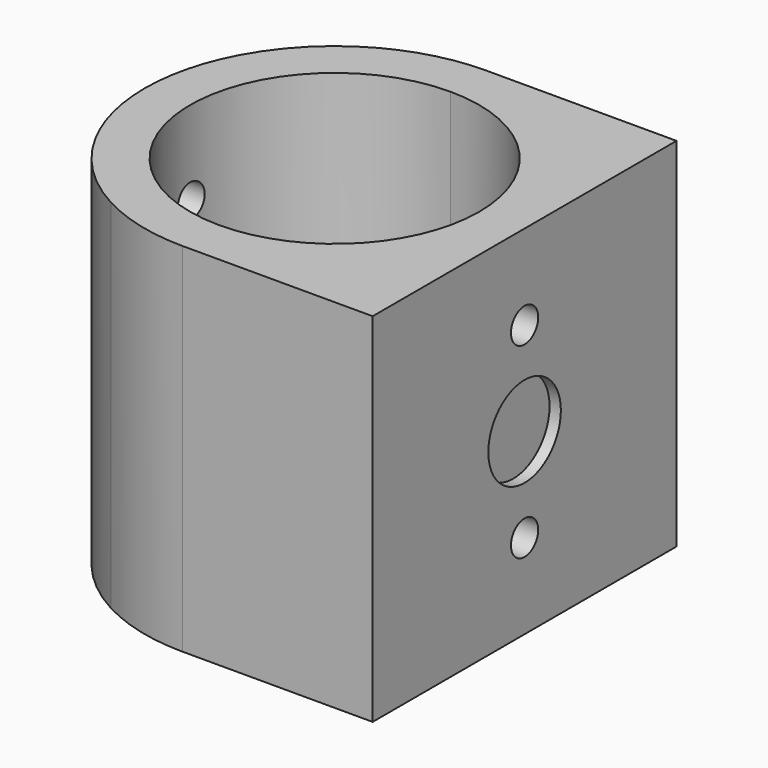
from build123d import *

# Parameters (mm, degrees)
F1_DEPTH  = 31.5
F2_R      = 3
F2_R_2    = 1.5
F3_DEPTH  = 5
F4_DEPTH  = 2
F2_R_3    = 4
F5_DEPTH  = 1
F6_DEPTH  = 4
F7_R      = 1.5
F8_DEPTH  = 31.5010001
F7_R_2    = 4
F9_DEPTH  = 2
F10_DEPTH = 33.501


with BuildPart() as f1:
    # F0 (on Top) → F1 (new body)
    with BuildSketch(Plane.XY):
        with BuildLine():
            Line((7.9372539332, -14.75), (0, -14.75))
            Line((0, -14.75), (0, -16.75))
            ThreePointArc((0, -16.75), (4.0926763859, -16.2423058708), (7.9372539332, -14.75))
        make_face()
        with BuildLine():
            ThreePointArc((16.75, 0), (16.2423058708, -4.0926763859), (14.75, -7.9372539332))
            Line((14.75, -7.9372539332), (14.75, -14.75))
            Line((14.75, -14.75), (7.9372539332, -14.75))
            ThreePointArc((7.9372539332, -14.75), (4.0926763859, -16.2423058708), (0, -16.75))
            Line((0, -16.75), (16.75, -16.75))
            Line((16.75, -16.75), (16.75, 0))
        make_face()
        with BuildLine():
            Line((14.75, -14.75), (14.75, -7.9372539332))
            ThreePointArc((14.75, -7.9372539332), (11.8440385849, -11.8440385849), (7.9372539332, -14.75))
            Line((7.9372539332, -14.75), (14.75, -14.75))
        make_face()
        with BuildLine():
            Line((14.75, -7.9372539332), (14.75, 0))
            ThreePointArc((14.75, 0), (10.4298250225, -10.4298250225), (0, -14.75))
            Line((0, -14.75), (7.9372539332, -14.75))
            ThreePointArc((7.9372539332, -14.75), (11.8440385849, -11.8440385849), (14.75, -7.9372539332))
        make_face()
        with BuildLine():
            ThreePointArc((0, -14.75), (10.4298250225, -10.4298250225), (14.75, 0))
            ThreePointArc((14.75, 0), (10.4298250225, 10.4298250225), (0, 14.75))
            Line((0, 14.75), (0, 12.75))
            ThreePointArc((0, 12.75), (9.0156114601, 9.0156114601), (12.75, 0))
            ThreePointArc((12.75, 0), (9.0156114601, -9.0156114601), (0, -12.75))
            Line((0, -12.75), (0, -14.75))
        make_face()
        with BuildLine():
            Line((14.75, 7.9372539332), (14.75, 0))
            Line((14.75, 0), (14.75, -7.9372539332))
            ThreePointArc((14.75, -7.9372539332), (16.2423058708, -4.0926763859), (16.75, 0))
            ThreePointArc((16.75, 0), (16.2423058708, 4.0926763859), (14.75, 7.9372539332))
        make_face()
        with BuildLine():
            ThreePointArc((0, 14.75), (10.4298250225, 10.4298250225), (14.75, 0))
            Line((14.75, 0), (14.75, 7.9372539332))
            ThreePointArc((14.75, 7.9372539332), (11.8440385849, 11.8440385849), (7.9372539332, 14.75))
            Line((7.9372539332, 14.75), (0, 14.75))
        make_face()
        with BuildLine():
            Line((14.75, 14.75), (14.75, 7.9372539332))
            ThreePointArc((14.75, 7.9372539332), (16.2423058708, 4.0926763859), (16.75, 0))
            Line((16.75, 0), (16.75, 16.75))
            Line((16.75, 16.75), (0, 16.75))
            ThreePointArc((0, 16.75), (4.0926763859, 16.2423058708), (7.9372539332, 14.75))
            Line((7.9372539332, 14.75), (14.75, 14.75))
        make_face()
        with BuildLine():
            ThreePointArc((7.9372539332, 14.75), (11.8440385849, 11.8440385849), (14.75, 7.9372539332))
            Line((14.75, 7.9372539332), (14.75, 14.75))
            Line((14.75, 14.75), (7.9372539332, 14.75))
        make_face()
        with BuildLine():
            Line((0, 16.75), (0, 14.75))
            Line((0, 14.75), (7.9372539332, 14.75))
            ThreePointArc((7.9372539332, 14.75), (4.0926763859, 16.2423058708), (0, 16.75))
        make_face()
        with BuildLine():
            Line((0, 12.75), (0, 14.75))
            ThreePointArc((0, 14.75), (-10.4298250296, 10.4298250154), (-14.75, -2e-08))
            ThreePointArc((-14.75, -2e-08), (-10.4298250154, -10.4298250296), (0, -14.75))
            Line((0, -14.75), (0, -12.75))
            ThreePointArc((0, -12.75), (-12.75, 0), (0, 12.75))
        make_face()
        with BuildLine():
            ThreePointArc((-14.75, -2e-08), (-10.4298250296, 10.4298250154), (0, 14.75))
            Line((0, 14.75), (-7.9372539332, 14.75))
            ThreePointArc((-7.9372539332, 14.75), (-11.8440385849, 11.8440385849), (-14.75, 7.9372539332))
            Line((-14.75, 7.9372539332), (-14.75, -2e-08))
        make_face()
        with BuildLine():
            Line((-7.9372539332, 14.75), (0, 14.75))
            Line((0, 14.75), (0, 16.75))
            ThreePointArc((0, 16.75), (-4.0926763859, 16.2423058708), (-7.9372539332, 14.75))
        make_face()
        with BuildLine():
            Line((-14.75, -7.9372539332), (-14.75, -2e-08))
            Line((-14.75, -2e-08), (-14.75, 7.9372539332))
            ThreePointArc((-14.75, 7.9372539332), (-16.2423058693, 4.092676392), (-16.75, 1.25e-08))
            ThreePointArc((-16.75, 1.25e-08), (-16.2423058723, -4.0926763799), (-14.75, -7.9372539332))
        make_face()
        with BuildLine():
            Line((-7.9372539332, -14.75), (0, -14.75))
            ThreePointArc((0, -14.75), (-10.4298250154, -10.4298250296), (-14.75, -2e-08))
            Line((-14.75, -2e-08), (-14.75, -7.9372539332))
            ThreePointArc((-14.75, -7.9372539332), (-11.8440385849, -11.8440385849), (-7.9372539332, -14.75))
        make_face()
        with BuildLine():
            Line((0, -16.75), (0, -14.75))
            Line((0, -14.75), (-7.9372539332, -14.75))
            ThreePointArc((-7.9372539332, -14.75), (-4.0926763859, -16.2423058708), (0, -16.75))
        make_face()
    extrude(amount=F1_DEPTH)

    # F2 (on face) → F3 (cut)
    with BuildSketch(Plane.YZ.offset(16.75)):
        with Locations((0, 24)):
            Circle(F2_R)
        with Locations((0, 24)):
            Circle(F2_R_2, mode=Mode.SUBTRACT)
        with Locations((0, 7.5)):
            Circle(F2_R)
        with Locations((0, 7.5)):
            Circle(F2_R_2, mode=Mode.SUBTRACT)
        with Locations((0, 24)):
            Circle(F2_R_2)
        with Locations((0, 7.5)):
            Circle(F2_R_2)
    extrude(amount=-F3_DEPTH, mode=Mode.SUBTRACT)

    # F2 (on face) → F4 (join)
    with BuildSketch(Plane.YZ.offset(16.75)):
        with Locations((0, 24)):
            Circle(F2_R)
        with Locations((0, 24)):
            Circle(F2_R_2, mode=Mode.SUBTRACT)
        with Locations((0, 7.5)):
            Circle(F2_R)
        with Locations((0, 7.5)):
            Circle(F2_R_2, mode=Mode.SUBTRACT)
    extrude(amount=-F4_DEPTH)

    # F2 (on face) → F5 (cut)
    with BuildSketch(Plane.YZ.offset(16.75)):
        with Locations((0, 15.75)):
            Circle(F2_R_3)
    extrude(amount=-F5_DEPTH, mode=Mode.SUBTRACT)

    # F0 (on Top) → F6 (join)
    with BuildSketch(Plane.XY):
        with BuildLine():
            ThreePointArc((12.75, 0), (9.0156114601, 9.0156114601), (0, 12.75))
            Line((0, 12.75), (0, -12.75))
            ThreePointArc((0, -12.75), (9.0156114601, -9.0156114601), (12.75, 0))
        make_face()
        with BuildLine():
            Line((0, -12.75), (0, 12.75))
            ThreePointArc((0, 12.75), (-12.75, 0), (0, -12.75))
        make_face()
    extrude(amount=F6_DEPTH)

    # F7 (on face) → F8 (cut, through all)
    with BuildSketch(Plane(origin=(0, 0, 0), x_dir=(1, 0, 0), z_dir=(0, 0, -1))):
        Circle(F7_R)
    extrude(amount=-F8_DEPTH, mode=Mode.SUBTRACT)

    # F7 (on face) → F9 (cut)
    with BuildSketch(Plane(origin=(0, 0, 0), x_dir=(1, 0, 0), z_dir=(0, 0, -1))):
        Circle(F7_R_2)
        Circle(F7_R, mode=Mode.SUBTRACT)
    extrude(amount=-F9_DEPTH, mode=Mode.SUBTRACT)

    # F2 (on face) → F10 (cut, through all)
    with BuildSketch(Plane.YZ.offset(16.75)):
        with Locations((0, 24)):
            Circle(F2_R_2)
        with Locations((0, 7.5)):
            Circle(F2_R_2)
    extrude(amount=-F10_DEPTH, mode=Mode.SUBTRACT)


solid = f1.part
